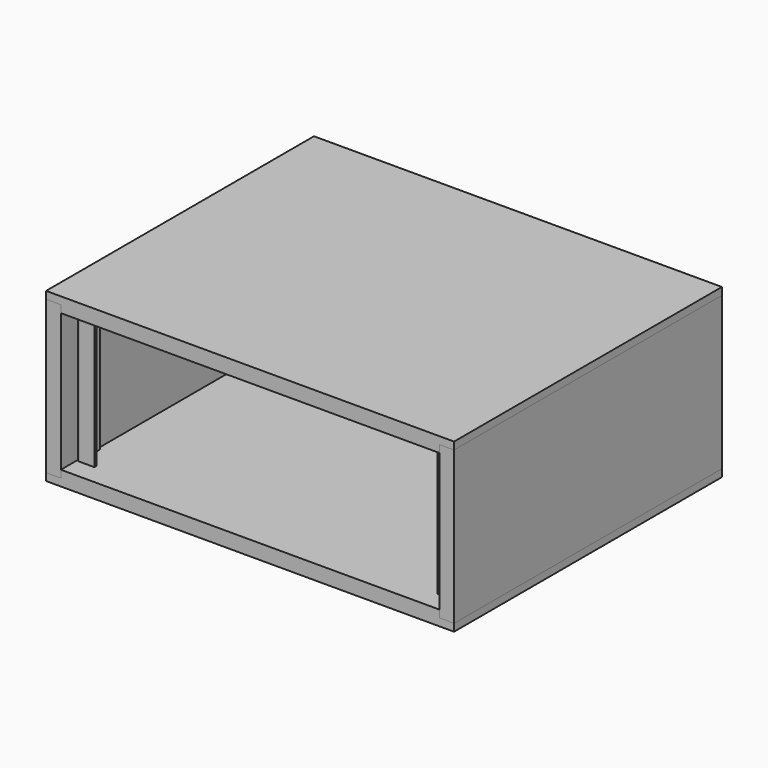
from build123d import *

# Parameters (mm, degrees)
F1_DEPTH      = 177.8
F3_DEPTH      = 25.4
F3_DEPTH_BACK = 406.4
F5_DEPTH      = 25.4
F5_DEPTH_BACK = 406.4


with BuildPart() as f1:
    # F0 (on Top) → F1 (new body)
    with BuildSketch(Plane.XY):
        with BuildLine():
            Line((-243.9924, 33.3375), (-243.9924, 3.175))
            ThreePointArc((-243.9924, 3.175), (-243.062464, 0.929936), (-240.8174, 0))
            Line((-240.8174, 0), (-221.1324, 0))
            Line((-221.1324, 0), (-221.1324, 3.175))
            Line((-221.1324, 3.175), (-240.8174, 3.175))
            Line((-240.8174, 3.175), (-240.8174, 33.3375))
            Line((-240.8174, 33.3375), (-243.9924, 33.3375))
        make_face()
        with BuildLine():
            ThreePointArc((240.8174, 0), (243.062464, 0.929936), (243.9924, 3.175))
            Line((243.9924, 3.175), (243.9924, 33.3375))
            Line((243.9924, 33.3375), (240.8174, 33.3375))
            Line((240.8174, 33.3375), (240.8174, 3.175))
            Line((240.8174, 3.175), (221.1324, 3.175))
            Line((221.1324, 3.175), (221.1324, 0))
            Line((221.1324, 0), (240.8174, 0))
        make_face()
    extrude(amount=F1_DEPTH)


with BuildPart() as f3:
    # F2 (on Front) → F3 (new body, two sides)
    with BuildSketch(Plane.XZ) as f3_sk:
        Polygon((-243.9924, 0), (-243.9924, 177.8), (-243.9924, 187.325), (-263.0424, 187.325), (-263.0424, 177.8), (-263.0424, 0), (-263.0424, -9.525), (-243.9924, -9.525), align=None)
        Polygon((263.0424, -9.525), (263.0424, 0), (263.0424, 177.8), (263.0424, 187.325), (243.9924, 187.325), (243.9924, 177.8), (243.9924, 0), (243.9924, -9.525), align=None)
    extrude(amount=F3_DEPTH)
    extrude(f3_sk.sketch, amount=-F3_DEPTH_BACK)


with BuildPart() as f5:
    # F4 (on Front) → F5 (new body, two sides)
    with BuildSketch(Plane.XZ) as f5_sk:
        Polygon((243.9924, 0), (-243.9924, 0), (-243.9924, -9.525), (-263.0424, -9.525), (-263.0424, -19.05), (263.0424, -19.05), (263.0424, -9.525), (243.9924, -9.525), align=None)
        Polygon((-263.0424, 187.325), (-243.9924, 187.325), (-243.9924, 177.8), (243.9924, 177.8), (243.9924, 187.325), (263.0424, 187.325), (263.0424, 196.85), (-263.0424, 196.85), align=None)
    extrude(amount=F5_DEPTH)
    extrude(f5_sk.sketch, amount=-F5_DEPTH_BACK)


solid = Compound([f1.part, f3.part, f5.part])
